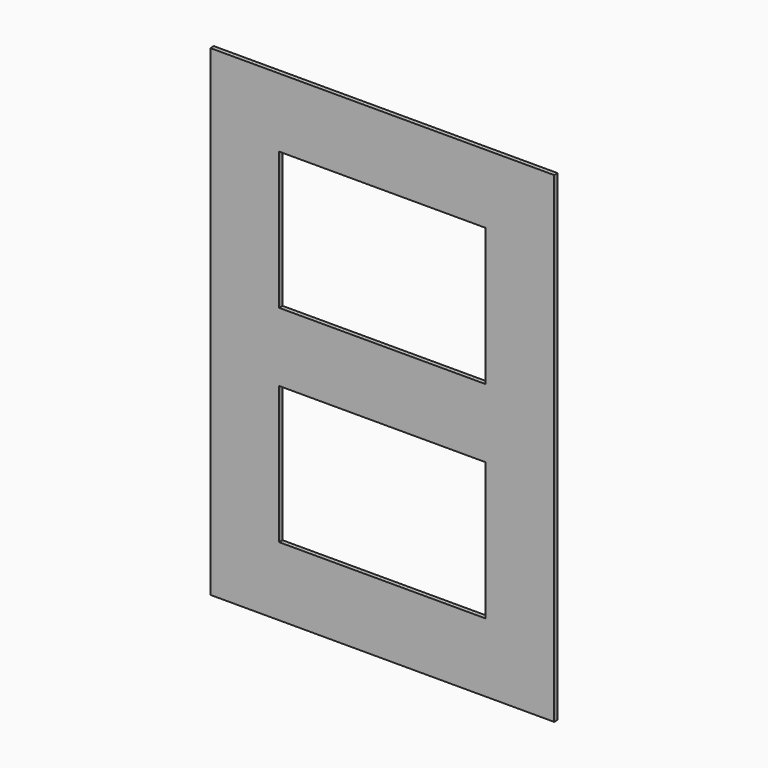
from build123d import *

# Parameters (mm, degrees)
F0_W     = 254
F0_H     = 355.6
F0_W_2   = 152.4
F0_H_2   = 101.6
F1_DEPTH = 3.175


with BuildPart() as f1:
    # F0 (on Front) → F1 (new body)
    with BuildSketch(Plane.XZ):
        with Locations((-127, 177.8)):
            Rectangle(F0_W, F0_H)
        with Locations((-127, 101.6)):
            Rectangle(F0_W_2, F0_H_2, mode=Mode.SUBTRACT)
        with Locations((-127, 254)):
            Rectangle(F0_W_2, F0_H_2, mode=Mode.SUBTRACT)
    extrude(amount=-F1_DEPTH)


solid = f1.part
